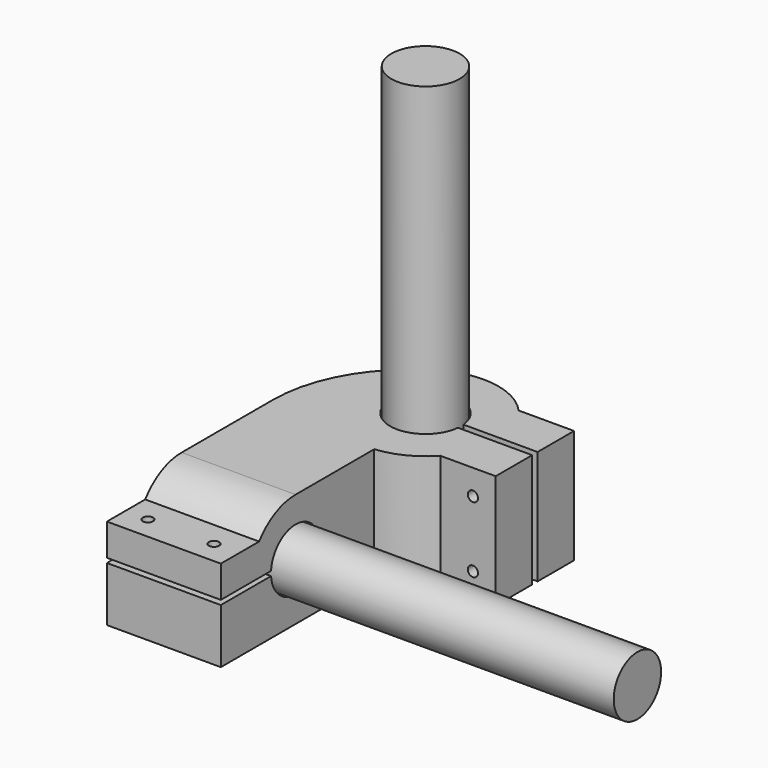
from build123d import *

# Parameters (mm, degrees)
CYLINDER_R                  = 15
CYLINDER_DEPTH              = 199
CYLINDER001_R               = 13
CYLINDER001_DEPTH           = 200
CYLINDER005_R               = 2.25
CYLINDER005_DEPTH           = 50
CYLINDER006_R               = 2.25
CYLINDER006_DEPTH           = 50
FUSION_ROLL_ANGLE           = 90
FUSION_PLACEMENT_ANGLE      = 90
CYLINDER004_R               = 15.5
CYLINDER004_DEPTH           = 199
CYLINDER003_R               = 13.5
CYLINDER003_DEPTH           = 200
BOX_W                       = 20
BOX_H                       = 3
BOX_DEPTH                   = 50
BOX006_W                    = 50
BOX006_H                    = 27
BOX006_DEPTH                = 2
CYLINDER007_R               = 2.25
CYLINDER007_DEPTH           = 50
CYLINDER008_R               = 2.25
CYLINDER008_DEPTH           = 50
BOX001_W                    = 25
BOX001_H                    = 20
BOX001_DEPTH                = 50
BOX002_W                    = 25
BOX002_H                    = 20
BOX002_DEPTH                = 50
BOX003_W                    = 50
BOX003_H                    = 75
BOX003_DEPTH                = 10
BOX004_W                    = 50
BOX004_H                    = 52
BOX004_DEPTH                = 14
BOX005_W                    = 50
BOX005_H                    = 22
BOX005_DEPTH                = 14
CYLINDER002_W               = 60
CYLINDER002_H               = 50
CYLINDER002_ANGLE           = 60
CYLINDER002_PLACEMENT_ANGLE = 120
TUBE_R                      = 32
TUBE_R_2                    = 15.5
TUBE_DEPTH                  = 50
TUBE001_R                   = 25
TUBE001_R_2                 = 13.5
TUBE001_DEPTH               = 50
BOX007_W                    = 50
BOX007_H                    = 50
BOX007_DEPTH                = 50


with BuildPart() as horizontal:
    # Cylinder → Cylinder (new body)
    with BuildSketch(Plane.XY):
        Circle(CYLINDER_R)
    extrude(amount=CYLINDER_DEPTH)


with BuildPart() as vertical:
    # Cylinder001 → Cylinder001 (new body)
    with BuildSketch(Plane(origin=(-47, -75, 40), x_dir=(0, 1, 0), z_dir=(1, 0, 0))):
        Circle(CYLINDER001_R)
    extrude(amount=CYLINDER001_DEPTH)


with BuildPart() as m4s:
    # Cylinder005 → Cylinder005 (new body)
    with BuildSketch(Plane(origin=(38, 22, 25), x_dir=(1, 0, 0), z_dir=(0, -1, 0))):
        Circle(CYLINDER005_R)
    extrude(amount=CYLINDER005_DEPTH)


with BuildPart() as m4s002:
    # Cylinder006 → Cylinder006 (new body)
    with BuildSketch(Plane(origin=(38, 22, 54), x_dir=(1, 0, 0), z_dir=(0, -1, 0))):
        Circle(CYLINDER006_R)
    extrude(amount=CYLINDER006_DEPTH)

    # Fusion: union m4s
    add(m4s.part)


with BuildPart() as obj1:
    # Fusion roll: moved
    add(m4s002.part.rotate(Axis((0, 0, 0), (1, 0, 0)), FUSION_ROLL_ANGLE))


with BuildPart() as obj2:
    # Fusion placement: moved
    add(obj1.part.moved(Location((-62, -144, 43))).rotate(Axis((-62, -144, 43), (0, 0, 1)), FUSION_PLACEMENT_ANGLE))


with BuildPart() as horizontal001cuts:
    # Cylinder004 → Cylinder004 (new body)
    with BuildSketch(Plane.XY):
        Circle(CYLINDER004_R)
    extrude(amount=CYLINDER004_DEPTH)


with BuildPart() as vertical001cuts:
    # Cylinder003 → Cylinder003 (new body)
    with BuildSketch(Plane(origin=(-47, -75, 40), x_dir=(0, 1, 0), z_dir=(1, 0, 0))):
        Circle(CYLINDER003_R)
    extrude(amount=CYLINDER003_DEPTH)


with BuildPart() as obj3:
    # Box → Box (new body)
    with BuildSketch(Plane(origin=(14, -1.5, 15), x_dir=(1, 0, 0), z_dir=(0, 0, 1))):
        with Locations((10, 1.5)):
            Rectangle(BOX_W, BOX_H)
    extrude(amount=BOX_DEPTH)


with BuildPart() as vercuts:
    # Box006 → Box006 (new body)
    with BuildSketch(Plane(origin=(-47, -110, 39), x_dir=(1, 0, 0), z_dir=(0, 0, 1))):
        with Locations((25, 13.5)):
            Rectangle(BOX006_W, BOX006_H)
    extrude(amount=BOX006_DEPTH)


with BuildPart() as m4s004:
    # Cylinder007 → Cylinder007 (new body)
    with BuildSketch(Plane(origin=(38, 22, 25), x_dir=(1, 0, 0), z_dir=(0, -1, 0))):
        Circle(CYLINDER007_R)
    extrude(amount=CYLINDER007_DEPTH)


with BuildPart() as cuts:
    # Cylinder008 → Cylinder008 (new body)
    with BuildSketch(Plane(origin=(38, 22, 54), x_dir=(1, 0, 0), z_dir=(0, -1, 0))):
        Circle(CYLINDER008_R)
    extrude(amount=CYLINDER008_DEPTH)

    # Fusion001: union m4s004
    add(m4s004.part)

    # Fusion002: union m4s002, Horizontal001Cuts, Vertical001Cuts, obj3, verCuts
    add(obj2.part)
    add(horizontal001cuts.part)
    add(vertical001cuts.part)
    add(obj3.part)
    add(vercuts.part)


with BuildPart() as obj4:
    # Box001 → Box001 (new body)
    with BuildSketch(Plane(origin=(23, -21.5, 15), x_dir=(1, 0, 0), z_dir=(0, 0, 1))):
        with Locations((12.5, 10)):
            Rectangle(BOX001_W, BOX001_H)
    extrude(amount=BOX001_DEPTH)


with BuildPart() as obj5:
    # Box002 → Box002 (new body)
    with BuildSketch(Plane(origin=(23, 1.5, 15), x_dir=(1, 0, 0), z_dir=(0, 0, 1))):
        with Locations((12.5, 10)):
            Rectangle(BOX002_W, BOX002_H)
    extrude(amount=BOX002_DEPTH)


with BuildPart() as veraddons:
    # Box003 → Box003 (new body)
    with BuildSketch(Plane(origin=(-47, -116, 15), x_dir=(1, 0, 0), z_dir=(0, 0, 1))):
        with Locations((25, 37.5)):
            Rectangle(BOX003_W, BOX003_H)
    extrude(amount=BOX003_DEPTH)


with BuildPart() as veraddons001:
    # Box004 → Box004 (new body)
    with BuildSketch(Plane(origin=(-47, -116, 25), x_dir=(1, 0, 0), z_dir=(0, 0, 1))):
        with Locations((25, 26)):
            Rectangle(BOX004_W, BOX004_H)
    extrude(amount=BOX004_DEPTH)


with BuildPart() as veraddons002:
    # Box005 → Box005 (new body)
    with BuildSketch(Plane(origin=(-47, -116, 41), x_dir=(1, 0, 0), z_dir=(0, 0, 1))):
        with Locations((25, 11)):
            Rectangle(BOX005_W, BOX005_H)
    extrude(amount=BOX005_DEPTH)


with BuildPart() as obj6:
    # Cylinder002 → Cylinder002 (revolve)
    with BuildSketch(Plane.XZ):
        with Locations((30, 25)):
            Rectangle(CYLINDER002_W, CYLINDER002_H)
    revolve(axis=Axis((0, 0, 0), (0, 0, 1)), revolution_arc=CYLINDER002_ANGLE)


with BuildPart() as obj6_1:
    # Cylinder002 placement: moved
    add(obj6.part.moved(Location((13, -25, 15))).rotate(Axis((13, -25, 15), (0, 0, 1)), CYLINDER002_PLACEMENT_ANGLE))


with BuildPart() as tubeaddons:
    # Tube → Tube (new body)
    with BuildSketch(Plane.XY.offset(15)):
        Circle(TUBE_R)
        Circle(TUBE_R_2, mode=Mode.SUBTRACT)
    extrude(amount=TUBE_DEPTH)


with BuildPart() as tubeaddons001:
    # Tube001 → Tube001 (new body)
    with BuildSketch(Plane(origin=(-47, -75, 40), x_dir=(0, 0, -1), z_dir=(1, 0, 0))):
        Circle(TUBE001_R)
        Circle(TUBE001_R_2, mode=Mode.SUBTRACT)
    extrude(amount=TUBE001_DEPTH)


with BuildPart() as rear:
    # Box007 → Box007 (new body)
    with BuildSketch(Plane(origin=(-47, -75, 15), x_dir=(1, 0, 0), z_dir=(0, 0, 1))):
        with Locations((25, 25)):
            Rectangle(BOX007_W, BOX007_H)
    extrude(amount=BOX007_DEPTH)

    # Fusion003: union obj4, obj5, VerAddons, VerAddons001, VerAddons002, obj6, TubeAddons, TubeAddons001
    add(obj4.part)
    add(obj5.part)
    add(veraddons.part)
    add(veraddons001.part)
    add(veraddons002.part)
    add(obj6_1.part)
    add(tubeaddons.part)
    add(tubeaddons001.part)

    # Cut: cut cuts
    add(cuts.part, mode=Mode.SUBTRACT)


solid = Compound([horizontal.part, vertical.part, rear.part])
